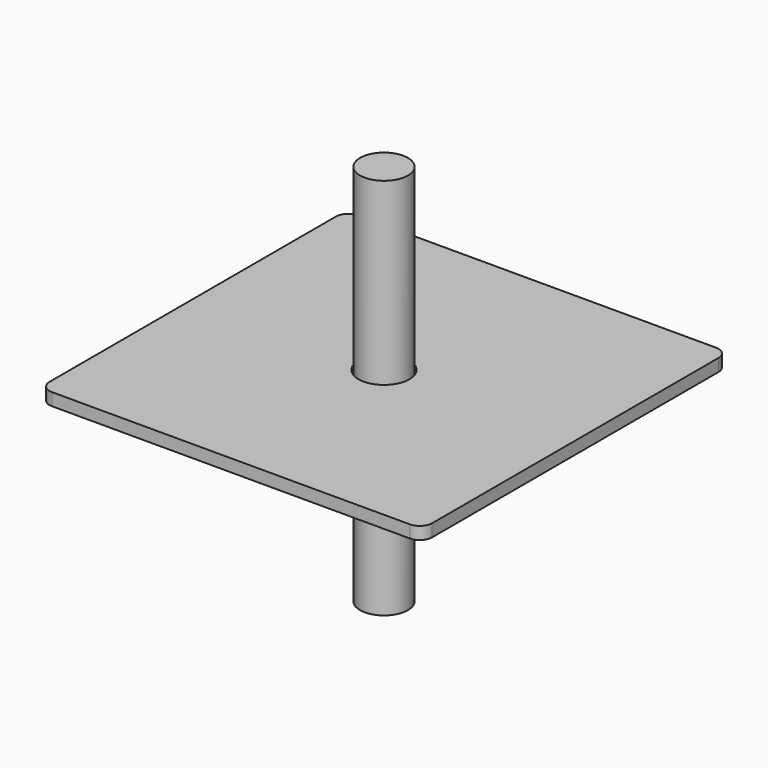
from build123d import *

# Parameters (mm, degrees)
F0_W     = 50.8
F0_H     = 50.8
F1_DEPTH = 1.651
F3_D     = 6.7564
F3_DEPTH = 25.4
F3_TIP   = 2.0298273432
F5_DEPTH = 3.175
F6_W     = 3.175
F6_H     = 50.8
F8_R     = 1.651


with BuildPart() as f1:
    # F0 (on Top) → F1 (new body)
    with BuildSketch(Plane.XY):
        Rectangle(F0_W, F0_H)
    extrude(amount=F1_DEPTH)

    # F3
    with Locations(Plane.XY.offset(1.651)):
        with Locations((0, 0)):
            Hole(F3_D / 2, depth=F3_DEPTH)
            with Locations((0, 0, -(F3_DEPTH + F3_TIP / 2))):  # 118° drill point
                Cone(0, F3_D / 2, F3_TIP, mode=Mode.SUBTRACT)

    # F8
    f8_edges = [f1.edges().sort_by_distance(p)[0] for p in [
        (-25.4, -25.4, 0.8255),
        (25.4, 25.4, 0.8255),
        (-25.4, 25.4, 0.8255),
        (25.4, -25.4, 0.8255),
    ]]
    fillet(f8_edges, radius=F8_R)


with BuildPart() as f5:
    # F4 (on face) → F5 (new body)
    with BuildSketch(Plane(origin=(0, 0, 0), x_dir=(1, 0, 0), z_dir=(0, 0, -1))):
        with BuildLine():
            Line((3.3782, 0), (6.35, 0))
            Line((6.35, 0), (6.35, 2.6302561211))
            Line((6.35, 2.6302561211), (2.6302561211, 6.35))
            Line((2.6302561211, 6.35), (-2.6302561211, 6.35))
            Line((-2.6302561211, 6.35), (-6.35, 2.6302561211))
            Line((-6.35, 2.6302561211), (-6.35, 0))
            Line((-6.35, 0), (-3.3782, 0))
            ThreePointArc((-3.3782, 0), (0, 3.3782), (3.3782, 0))
        make_face()
        with BuildLine():
            Line((-2.6302561211, -6.35), (2.6302561211, -6.35))
            Line((2.6302561211, -6.35), (6.35, -2.6302561211))
            Line((6.35, -2.6302561211), (6.35, 0))
            Line((6.35, 0), (3.3782, 0))
            ThreePointArc((3.3782, 0), (0, -3.3782), (-3.3782, 0))
            Line((-3.3782, 0), (-6.35, 0))
            Line((-6.35, 0), (-6.35, -2.6302561211))
            Line((-6.35, -2.6302561211), (-2.6302561211, -6.35))
        make_face()
    extrude(amount=F5_DEPTH)


with BuildPart() as f7:
    # F6 (on Right) → F7 (revolve)
    with BuildSketch(Plane.YZ):
        with Locations((-1.5875, 0)):
            Rectangle(F6_W, F6_H)
    revolve(axis=Axis((0, 0, 0), (0, 0, 1)))


solid = Compound([f1.part, f5.part, f7.part])
